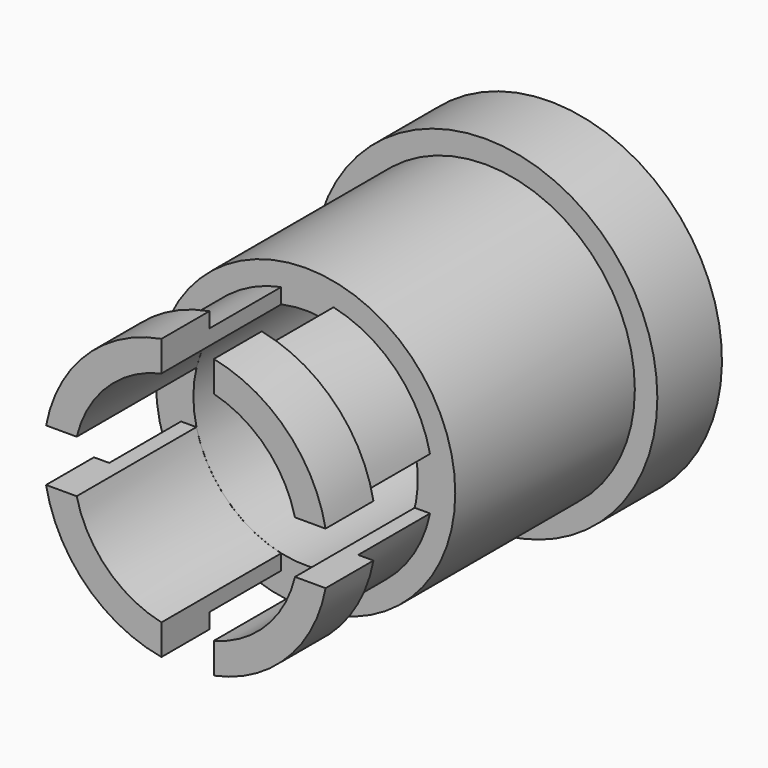
from build123d import *

# Parameters (mm, degrees)
CYLINDER026_R             = 2.3
CYLINDER026_DEPTH         = 2
TUBE008_R                 = 2
TUBE008_R_2               = 1.5
TUBE008_DEPTH             = 3
BOX037_W                  = 3
BOX037_H                  = 10
BOX037_DEPTH              = 0.7
BOX036_W                  = 3
BOX036_H                  = 10
BOX036_DEPTH              = 0.7
BOX035_W                  = 3
BOX035_H                  = 10
BOX035_DEPTH              = 0.7
BOX034_W                  = 3
BOX034_H                  = 10
BOX034_DEPTH              = 0.7
TUBE010_R                 = 1.9
TUBE010_R_2               = 1.5
TUBE010_DEPTH             = 0.8
TUBE009_R                 = 1.7
TUBE009_R_2               = 1.5
TUBE009_DEPTH             = 2
FUSION010_PLACEMENT_ANGLE = 180


with BuildPart() as cylinder026:
    # Cylinder026 → Cylinder026 (new body)
    with BuildSketch(Plane(origin=(0, -31.287, 1.982), x_dir=(1, 0, 0), z_dir=(0, -1, 0))):
        Circle(CYLINDER026_R)
    extrude(amount=CYLINDER026_DEPTH)


with BuildPart() as common002:
    # Sphere002 → Sphere002 (revolve)
    with BuildSketch(Plane(origin=(0, -25.755, 1.989), x_dir=(1, 0, 0), z_dir=(0, -1, 0))):
        with BuildLine():
            ThreePointArc((0, -7), (7, 0), (0, 7))
            Line((0, 7), (0, -7))
        make_face()
    revolve(axis=Axis((0, -25.755, 1.989), (0, 0, 1)))

    # Common002: intersect Cylinder026
    add(cylinder026.part, mode=Mode.INTERSECT)


with BuildPart() as common002_1:
    # Common002 placement: moved
    add(common002.part.moved(Location((0, 33.12, -0.018))))


with BuildPart() as fusion009:
    # Tube008 → Tube008 (new body)
    with BuildSketch(Plane(origin=(0, 4.834, 1.964), x_dir=(1, 0, 0), z_dir=(0, -1, 0))):
        Circle(TUBE008_R)
        Circle(TUBE008_R_2, mode=Mode.SUBTRACT)
    extrude(amount=TUBE008_DEPTH)

    # Fusion009: union Common002
    add(common002_1.part)


with BuildPart() as cube017:
    # Box037 → Box037 (new body)
    with BuildSketch(Plane(origin=(0.326, -0.784, 2.677), x_dir=(0, 0, 1), z_dir=(-1, 0, 0))):
        with Locations((1.5, 5)):
            Rectangle(BOX037_W, BOX037_H)
    extrude(amount=BOX037_DEPTH)


with BuildPart() as cube016:
    # Box036 → Box036 (new body)
    with BuildSketch(Plane(origin=(-3.072, -0.784, 1.616), x_dir=(1, 0, 0), z_dir=(0, 0, 1))):
        with Locations((1.5, 5)):
            Rectangle(BOX036_W, BOX036_H)
    extrude(amount=BOX036_DEPTH)


with BuildPart() as cube015:
    # Box035 → Box035 (new body)
    with BuildSketch(Plane(origin=(0, -0.784, 1.616), x_dir=(1, 0, 0), z_dir=(0, 0, 1))):
        with Locations((1.5, 5)):
            Rectangle(BOX035_W, BOX035_H)
    extrude(amount=BOX035_DEPTH)


with BuildPart() as cube014:
    # Box034 → Box034 (new body)
    with BuildSketch(Plane(origin=(0.326, -0.784, -1.491), x_dir=(0, 0, 1), z_dir=(-1, 0, 0))):
        with Locations((1.5, 5)):
            Rectangle(BOX034_W, BOX034_H)
    extrude(amount=BOX034_DEPTH)


with BuildPart() as tube010:
    # Tube010 → Tube010 (new body)
    with BuildSketch(Plane(origin=(0, 6.835, 1.964), x_dir=(1, 0, 0), z_dir=(0, -1, 0))):
        Circle(TUBE010_R)
        Circle(TUBE010_R_2, mode=Mode.SUBTRACT)
    extrude(amount=TUBE010_DEPTH)


with BuildPart() as lens002:
    # Tube009 → Tube009 (new body)
    with BuildSketch(Plane(origin=(0, 6.835, 1.964), x_dir=(1, 0, 0), z_dir=(0, -1, 0))):
        Circle(TUBE009_R)
        Circle(TUBE009_R_2, mode=Mode.SUBTRACT)
    extrude(amount=TUBE009_DEPTH)

    # Fusion008: union Tube010
    add(tube010.part)

    # Cut054: cut Cube014
    add(cube014.part, mode=Mode.SUBTRACT)

    # Cut055: cut Cube015
    add(cube015.part, mode=Mode.SUBTRACT)

    # Cut056: cut Cube016
    add(cube016.part, mode=Mode.SUBTRACT)

    # Cut057: cut Cube017
    add(cube017.part, mode=Mode.SUBTRACT)

    # Fusion010: union Fusion009
    add(fusion009.part)


with BuildPart() as lens002_1:
    # Fusion010 placement: moved
    add(lens002.part.moved(Location((412.405, -16.852, 17.397))).rotate(Axis((412.405, -16.852, 17.397), (0, 0, 1)), FUSION010_PLACEMENT_ANGLE))


solid = lens002_1.part
